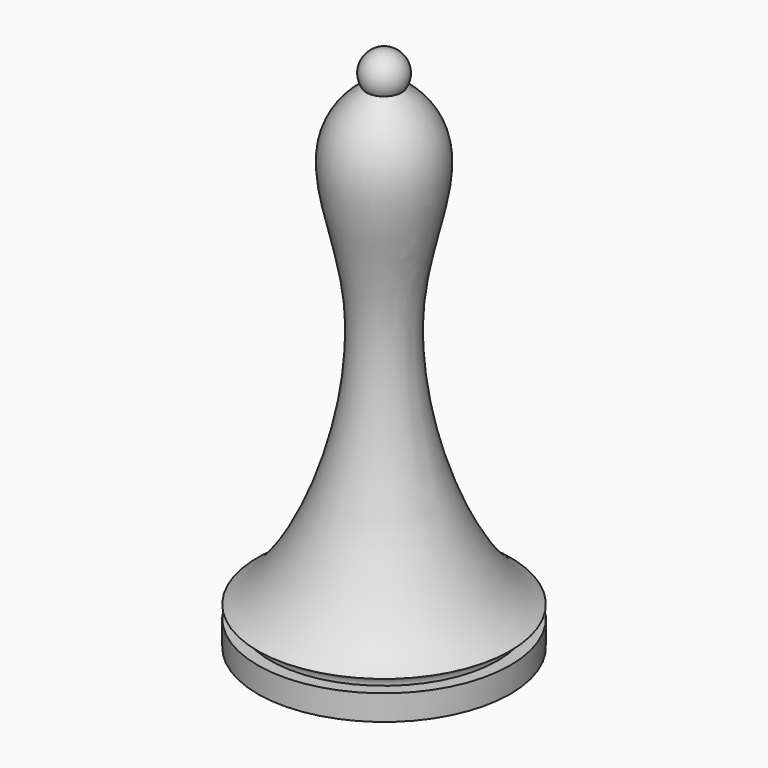
from build123d import *


with BuildPart() as f1:
    # F0 (on Front) → F1 (revolve)
    with BuildSketch(Plane.XZ):
        with BuildLine():
            Line((0, 8.8382818858), (0, 0))
            Line((0, 0), (10, 0))
            Line((10, 0), (10, 2))
            Line((10, 2), (9, 2))
            ThreePointArc((9, 2), (9.2928932188, 2.7071067812), (10, 3))
            add(Edge.make_bspline(
                [(10, 3), (5.6970222105, 5.5161274686), (-1.3836503017, 24.4209409655), (6.6211349569, 35.1973583272), (1.3998154741, 39.0954037275)],
                knots=[0, 0, 0, 0, 0.5419605204, 0.9666014846, 0.9666014846, 0.9666014846, 0.9666014846], degree=3))
            ThreePointArc((1.3998154741, 39.0954037275), (0.7969056794, 38.5361970365), (0, 38.3333333333))
            Line((0, 38.3333333333), (0, 37.6222543418))
            Line((0, 37.6222543418), (2.2149570286, 35.4595184326))
            Line((2.2149570286, 35.4595184326), (2.2149570286, 32.5758717954))
            Line((2.2149570286, 32.5758717954), (1.3498631306, 27.0969439298))
            Line((1.3498631306, 27.0969439298), (0.9173162398, 21.1133789271))
            Line((0.9173162398, 21.1133789271), (1.9265923183, 13.3996251971))
            Line((1.9265923183, 13.3996251971), (3.0079598073, 9.722976014))
            Line((3.0079598073, 9.722976014), (0, 8.8382818858))
        make_face()
        with BuildLine():
            Line((0, 41.6666666667), (0, 40))
            add(Edge.make_bspline(
                [(1.3998154741, 39.0954037275), (0.9891525046, 39.4019896211), (0.5244366288, 39.7034029043), (0, 40)],
                knots=[0.9666014846, 0.9666014846, 0.9666014846, 0.9666014846, 1, 1, 1, 1], degree=3))
            ThreePointArc((1.3998154741, 39.0954037275), (1.4638029635, 40.7969056794), (0, 41.6666666667))
        make_face()
        with BuildLine():
            Line((0, 40), (0, 38.3333333333))
            ThreePointArc((0, 38.3333333333), (0.7969056794, 38.5361970365), (1.3998154741, 39.0954037275))
            add(Edge.make_bspline(
                [(1.3998154741, 39.0954037275), (0.9891525046, 39.4019896211), (0.5244366288, 39.7034029043), (0, 40)],
                knots=[0.9666014846, 0.9666014846, 0.9666014846, 0.9666014846, 1, 1, 1, 1], degree=3))
        make_face()
    revolve(axis=Axis((0, 0, 20), (0, 0, 1)))


solid = f1.part
